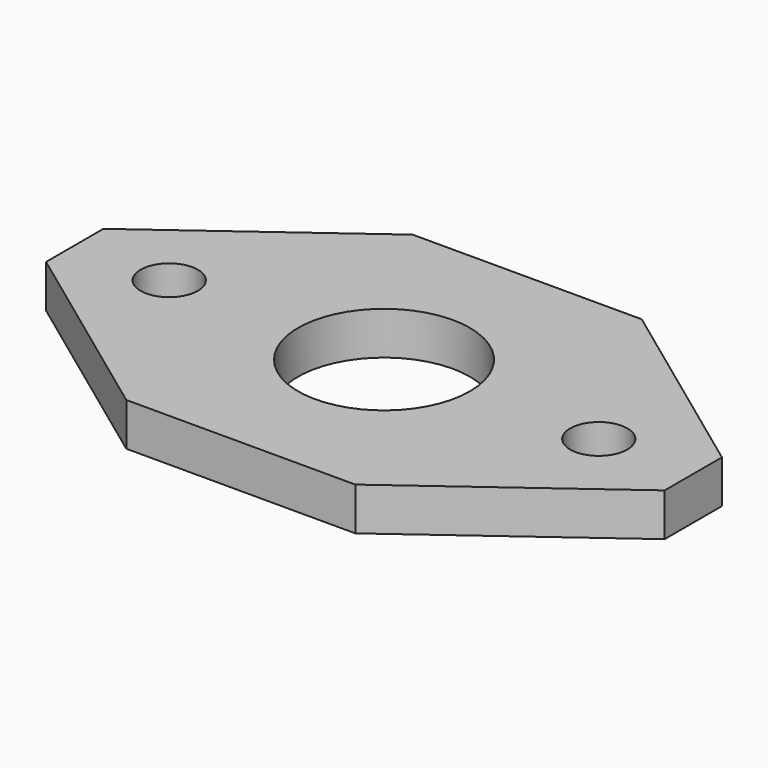
from build123d import *

# Parameters (mm, degrees)
F0_W     = 50
F0_H     = 25
F1_DEPTH = 3
F2_R     = 6
F3_DEPTH = 3.001
F5_DEPTH = 3.001
F6_R     = 2
F7_DEPTH = 3.001
F9_DEPTH = 3.001


with BuildPart() as f1:
    # F0 (on Top) → F1 (new body)
    with BuildSketch(Plane.XY):
        Rectangle(F0_W, F0_H)
    extrude(amount=F1_DEPTH)

    # F2 (on face) → F3 (cut, through all)
    with BuildSketch(Plane.XY.offset(3)):
        Circle(F2_R)
    extrude(amount=-F3_DEPTH, mode=Mode.SUBTRACT)

    # F4 (on face) → F5 (cut, through all)
    with BuildSketch(Plane.XY.offset(3)):
        Polygon((-25, 12.5), (-25, 0), (-8, 12.5), align=None)
        Polygon((-8, -12.5), (-25, 0), (-25, -12.5), align=None)
        Polygon((25, 12.5), (8, 12.5), (25, 0), align=None)
        Polygon((25, 0), (8, -12.5), (25, -12.5), align=None)
    extrude(amount=-F5_DEPTH, mode=Mode.SUBTRACT)

    # F6 (on face) → F7 (cut, through all)
    with BuildSketch(Plane.XY.offset(3)):
        with Locations((-15, 0)):
            Circle(F6_R)
        with Locations((15, 0)):
            Circle(F6_R)
    extrude(amount=-F7_DEPTH, mode=Mode.SUBTRACT)

    # F8 (on face) → F9 (cut, through all)
    with BuildSketch(Plane.XY.offset(3)):
        Polygon((-21.6, -2.5), (-21.6, 2.5), (-25, 0), align=None)
        Polygon((25, 0), (21.6, 2.5), (21.6, -2.5), align=None)
    extrude(amount=-F9_DEPTH, mode=Mode.SUBTRACT)


solid = f1.part
